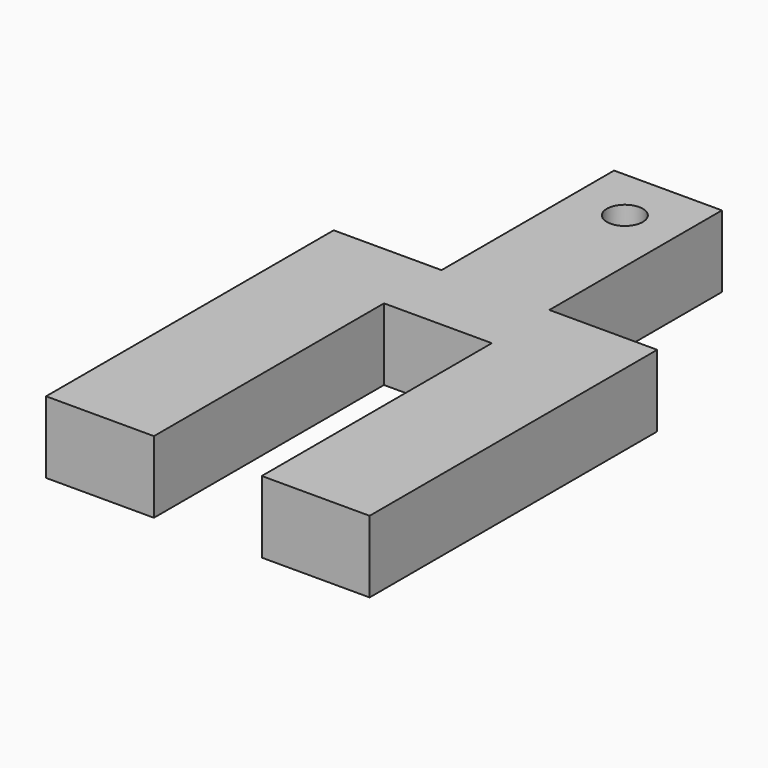
from build123d import *

# Parameters (mm, degrees)
F0_W     = 19.05
F0_H     = 38.1
F0_R     = 3.175
F0_H_2   = 12.7
F0_H_3   = 50.8
F1_DEPTH = 12.7


with BuildPart() as f1:
    # F0 (on Top) → F1 (new body)
    with BuildSketch(Plane.XY):
        with Locations((0, 31.75)):
            Rectangle(F0_W, F0_H)
        with Locations((0, 41.275)):
            Circle(F0_R, mode=Mode.SUBTRACT)
        with Locations((-19.05, 6.35)):
            Rectangle(F0_W, F0_H_2)
        with Locations((-19.05, -25.4)):
            Rectangle(F0_W, F0_H_3)
        with Locations((19.05, 6.35)):
            Rectangle(F0_W, F0_H_2)
        with Locations((19.05, -25.4)):
            Rectangle(F0_W, F0_H_3)
        with Locations((0, 6.35)):
            Rectangle(F0_W, F0_H_2)
    extrude(amount=F1_DEPTH)


solid = f1.part
